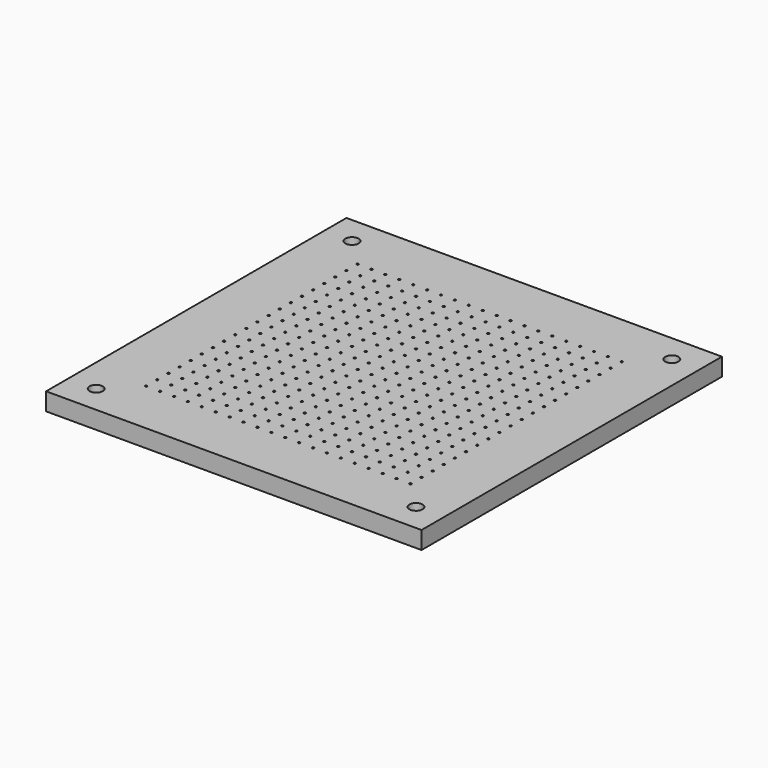
from build123d import *

# Parameters (mm, degrees)
F0_W     = 270
F0_H     = 270
F0_R     = 2.75
F0_R_2   = 0.75
F1_DEPTH = 12.7
F2_R     = 4.75
F2_R_2   = 2.75
F3_DEPTH = 5.5
F4_R     = 1.75
F5_DEPTH = 8


with BuildPart() as f1:
    # F0 (on Top) → F1 (new body)
    with BuildSketch(Plane.XY):
        with Locations((135, 135)):
            Rectangle(F0_W, F0_H)
        with Locations((20, 20)):
            Circle(F0_R, mode=Mode.SUBTRACT)
        with Locations((40, 40)):
            Circle(F0_R_2, mode=Mode.SUBTRACT)
        with Locations((50, 40)):
            Circle(F0_R_2, mode=Mode.SUBTRACT)
        with Locations((40, 50)):
            Circle(F0_R_2, mode=Mode.SUBTRACT)
        with Locations((50, 50)):
            Circle(F0_R_2, mode=Mode.SUBTRACT)
        with Locations((60, 40)):
            Circle(F0_R_2, mode=Mode.SUBTRACT)
        with Locations((60, 50)):
            Circle(F0_R_2, mode=Mode.SUBTRACT)
        with Locations((40, 60)):
            Circle(F0_R_2, mode=Mode.SUBTRACT)
        with Locations((50, 60)):
            Circle(F0_R_2, mode=Mode.SUBTRACT)
        with Locations((60, 60)):
            Circle(F0_R_2, mode=Mode.SUBTRACT)
        with Locations((70, 40)):
            Circle(F0_R_2, mode=Mode.SUBTRACT)
        with Locations((80, 40)):
            Circle(F0_R_2, mode=Mode.SUBTRACT)
        with Locations((70, 50)):
            Circle(F0_R_2, mode=Mode.SUBTRACT)
        with Locations((80, 50)):
            Circle(F0_R_2, mode=Mode.SUBTRACT)
        with Locations((90, 40)):
            Circle(F0_R_2, mode=Mode.SUBTRACT)
        with Locations((100, 40)):
            Circle(F0_R_2, mode=Mode.SUBTRACT)
        with Locations((90, 50)):
            Circle(F0_R_2, mode=Mode.SUBTRACT)
        with Locations((100, 50)):
            Circle(F0_R_2, mode=Mode.SUBTRACT)
        with Locations((70, 60)):
            Circle(F0_R_2, mode=Mode.SUBTRACT)
        with Locations((80, 60)):
            Circle(F0_R_2, mode=Mode.SUBTRACT)
        with Locations((90, 60)):
            Circle(F0_R_2, mode=Mode.SUBTRACT)
        with Locations((100, 60)):
            Circle(F0_R_2, mode=Mode.SUBTRACT)
        with Locations((110, 40)):
            Circle(F0_R_2, mode=Mode.SUBTRACT)
        with Locations((110, 50)):
            Circle(F0_R_2, mode=Mode.SUBTRACT)
        with Locations((120, 40)):
            Circle(F0_R_2, mode=Mode.SUBTRACT)
        with Locations((130, 40)):
            Circle(F0_R_2, mode=Mode.SUBTRACT)
        with Locations((120, 50)):
            Circle(F0_R_2, mode=Mode.SUBTRACT)
        with Locations((130, 50)):
            Circle(F0_R_2, mode=Mode.SUBTRACT)
        with Locations((110, 60)):
            Circle(F0_R_2, mode=Mode.SUBTRACT)
        with Locations((120, 60)):
            Circle(F0_R_2, mode=Mode.SUBTRACT)
        with Locations((130, 60)):
            Circle(F0_R_2, mode=Mode.SUBTRACT)
        with Locations((40, 70)):
            Circle(F0_R_2, mode=Mode.SUBTRACT)
        with Locations((50, 70)):
            Circle(F0_R_2, mode=Mode.SUBTRACT)
        with Locations((40, 80)):
            Circle(F0_R_2, mode=Mode.SUBTRACT)
        with Locations((50, 80)):
            Circle(F0_R_2, mode=Mode.SUBTRACT)
        with Locations((60, 70)):
            Circle(F0_R_2, mode=Mode.SUBTRACT)
        with Locations((60, 80)):
            Circle(F0_R_2, mode=Mode.SUBTRACT)
        with Locations((40, 90)):
            Circle(F0_R_2, mode=Mode.SUBTRACT)
        with Locations((50, 90)):
            Circle(F0_R_2, mode=Mode.SUBTRACT)
        with Locations((40, 100)):
            Circle(F0_R_2, mode=Mode.SUBTRACT)
        with Locations((50, 100)):
            Circle(F0_R_2, mode=Mode.SUBTRACT)
        with Locations((60, 90)):
            Circle(F0_R_2, mode=Mode.SUBTRACT)
        with Locations((60, 100)):
            Circle(F0_R_2, mode=Mode.SUBTRACT)
        with Locations((40, 110)):
            Circle(F0_R_2, mode=Mode.SUBTRACT)
        with Locations((50, 110)):
            Circle(F0_R_2, mode=Mode.SUBTRACT)
        with Locations((60, 110)):
            Circle(F0_R_2, mode=Mode.SUBTRACT)
        with Locations((40, 120)):
            Circle(F0_R_2, mode=Mode.SUBTRACT)
        with Locations((50, 120)):
            Circle(F0_R_2, mode=Mode.SUBTRACT)
        with Locations((40, 130)):
            Circle(F0_R_2, mode=Mode.SUBTRACT)
        with Locations((50, 130)):
            Circle(F0_R_2, mode=Mode.SUBTRACT)
        with Locations((60, 120)):
            Circle(F0_R_2, mode=Mode.SUBTRACT)
        with Locations((60, 130)):
            Circle(F0_R_2, mode=Mode.SUBTRACT)
        with Locations((70, 70)):
            Circle(F0_R_2, mode=Mode.SUBTRACT)
        with Locations((80, 70)):
            Circle(F0_R_2, mode=Mode.SUBTRACT)
        with Locations((70, 80)):
            Circle(F0_R_2, mode=Mode.SUBTRACT)
        with Locations((80, 80)):
            Circle(F0_R_2, mode=Mode.SUBTRACT)
        with Locations((90, 70)):
            Circle(F0_R_2, mode=Mode.SUBTRACT)
        with Locations((100, 70)):
            Circle(F0_R_2, mode=Mode.SUBTRACT)
        with Locations((90, 80)):
            Circle(F0_R_2, mode=Mode.SUBTRACT)
        with Locations((100, 80)):
            Circle(F0_R_2, mode=Mode.SUBTRACT)
        with Locations((70, 90)):
            Circle(F0_R_2, mode=Mode.SUBTRACT)
        with Locations((80, 90)):
            Circle(F0_R_2, mode=Mode.SUBTRACT)
        with Locations((70, 100)):
            Circle(F0_R_2, mode=Mode.SUBTRACT)
        with Locations((80, 100)):
            Circle(F0_R_2, mode=Mode.SUBTRACT)
        with Locations((90, 90)):
            Circle(F0_R_2, mode=Mode.SUBTRACT)
        with Locations((100, 90)):
            Circle(F0_R_2, mode=Mode.SUBTRACT)
        with Locations((90, 100)):
            Circle(F0_R_2, mode=Mode.SUBTRACT)
        with Locations((100, 100)):
            Circle(F0_R_2, mode=Mode.SUBTRACT)
        with Locations((110, 70)):
            Circle(F0_R_2, mode=Mode.SUBTRACT)
        with Locations((110, 80)):
            Circle(F0_R_2, mode=Mode.SUBTRACT)
        with Locations((120, 70)):
            Circle(F0_R_2, mode=Mode.SUBTRACT)
        with Locations((130, 70)):
            Circle(F0_R_2, mode=Mode.SUBTRACT)
        with Locations((120, 80)):
            Circle(F0_R_2, mode=Mode.SUBTRACT)
        with Locations((130, 80)):
            Circle(F0_R_2, mode=Mode.SUBTRACT)
        with Locations((110, 90)):
            Circle(F0_R_2, mode=Mode.SUBTRACT)
        with Locations((110, 100)):
            Circle(F0_R_2, mode=Mode.SUBTRACT)
        with Locations((120, 90)):
            Circle(F0_R_2, mode=Mode.SUBTRACT)
        with Locations((130, 90)):
            Circle(F0_R_2, mode=Mode.SUBTRACT)
        with Locations((120, 100)):
            Circle(F0_R_2, mode=Mode.SUBTRACT)
        with Locations((130, 100)):
            Circle(F0_R_2, mode=Mode.SUBTRACT)
        with Locations((70, 110)):
            Circle(F0_R_2, mode=Mode.SUBTRACT)
        with Locations((80, 110)):
            Circle(F0_R_2, mode=Mode.SUBTRACT)
        with Locations((90, 110)):
            Circle(F0_R_2, mode=Mode.SUBTRACT)
        with Locations((100, 110)):
            Circle(F0_R_2, mode=Mode.SUBTRACT)
        with Locations((70, 120)):
            Circle(F0_R_2, mode=Mode.SUBTRACT)
        with Locations((80, 120)):
            Circle(F0_R_2, mode=Mode.SUBTRACT)
        with Locations((70, 130)):
            Circle(F0_R_2, mode=Mode.SUBTRACT)
        with Locations((80, 130)):
            Circle(F0_R_2, mode=Mode.SUBTRACT)
        with Locations((90, 120)):
            Circle(F0_R_2, mode=Mode.SUBTRACT)
        with Locations((100, 120)):
            Circle(F0_R_2, mode=Mode.SUBTRACT)
        with Locations((90, 130)):
            Circle(F0_R_2, mode=Mode.SUBTRACT)
        with Locations((100, 130)):
            Circle(F0_R_2, mode=Mode.SUBTRACT)
        with Locations((110, 110)):
            Circle(F0_R_2, mode=Mode.SUBTRACT)
        with Locations((120, 110)):
            Circle(F0_R_2, mode=Mode.SUBTRACT)
        with Locations((130, 110)):
            Circle(F0_R_2, mode=Mode.SUBTRACT)
        with Locations((110, 120)):
            Circle(F0_R_2, mode=Mode.SUBTRACT)
        with Locations((110, 130)):
            Circle(F0_R_2, mode=Mode.SUBTRACT)
        with Locations((120, 120)):
            Circle(F0_R_2, mode=Mode.SUBTRACT)
        with Locations((130, 120)):
            Circle(F0_R_2, mode=Mode.SUBTRACT)
        with Locations((120, 130)):
            Circle(F0_R_2, mode=Mode.SUBTRACT)
        with Locations((130, 130)):
            Circle(F0_R_2, mode=Mode.SUBTRACT)
        with Locations((140, 40)):
            Circle(F0_R_2, mode=Mode.SUBTRACT)
        with Locations((150, 40)):
            Circle(F0_R_2, mode=Mode.SUBTRACT)
        with Locations((140, 50)):
            Circle(F0_R_2, mode=Mode.SUBTRACT)
        with Locations((150, 50)):
            Circle(F0_R_2, mode=Mode.SUBTRACT)
        with Locations((160, 40)):
            Circle(F0_R_2, mode=Mode.SUBTRACT)
        with Locations((160, 50)):
            Circle(F0_R_2, mode=Mode.SUBTRACT)
        with Locations((140, 60)):
            Circle(F0_R_2, mode=Mode.SUBTRACT)
        with Locations((150, 60)):
            Circle(F0_R_2, mode=Mode.SUBTRACT)
        with Locations((160, 60)):
            Circle(F0_R_2, mode=Mode.SUBTRACT)
        with Locations((170, 40)):
            Circle(F0_R_2, mode=Mode.SUBTRACT)
        with Locations((180, 40)):
            Circle(F0_R_2, mode=Mode.SUBTRACT)
        with Locations((170, 50)):
            Circle(F0_R_2, mode=Mode.SUBTRACT)
        with Locations((180, 50)):
            Circle(F0_R_2, mode=Mode.SUBTRACT)
        with Locations((190, 40)):
            Circle(F0_R_2, mode=Mode.SUBTRACT)
        with Locations((200, 40)):
            Circle(F0_R_2, mode=Mode.SUBTRACT)
        with Locations((190, 50)):
            Circle(F0_R_2, mode=Mode.SUBTRACT)
        with Locations((200, 50)):
            Circle(F0_R_2, mode=Mode.SUBTRACT)
        with Locations((170, 60)):
            Circle(F0_R_2, mode=Mode.SUBTRACT)
        with Locations((180, 60)):
            Circle(F0_R_2, mode=Mode.SUBTRACT)
        with Locations((190, 60)):
            Circle(F0_R_2, mode=Mode.SUBTRACT)
        with Locations((200, 60)):
            Circle(F0_R_2, mode=Mode.SUBTRACT)
        with Locations((250, 20)):
            Circle(F0_R, mode=Mode.SUBTRACT)
        with Locations((210, 40)):
            Circle(F0_R_2, mode=Mode.SUBTRACT)
        with Locations((210, 50)):
            Circle(F0_R_2, mode=Mode.SUBTRACT)
        with Locations((220, 40)):
            Circle(F0_R_2, mode=Mode.SUBTRACT)
        with Locations((230, 40)):
            Circle(F0_R_2, mode=Mode.SUBTRACT)
        with Locations((220, 50)):
            Circle(F0_R_2, mode=Mode.SUBTRACT)
        with Locations((230, 50)):
            Circle(F0_R_2, mode=Mode.SUBTRACT)
        with Locations((210, 60)):
            Circle(F0_R_2, mode=Mode.SUBTRACT)
        with Locations((220, 60)):
            Circle(F0_R_2, mode=Mode.SUBTRACT)
        with Locations((230, 60)):
            Circle(F0_R_2, mode=Mode.SUBTRACT)
        with Locations((140, 70)):
            Circle(F0_R_2, mode=Mode.SUBTRACT)
        with Locations((150, 70)):
            Circle(F0_R_2, mode=Mode.SUBTRACT)
        with Locations((140, 80)):
            Circle(F0_R_2, mode=Mode.SUBTRACT)
        with Locations((150, 80)):
            Circle(F0_R_2, mode=Mode.SUBTRACT)
        with Locations((160, 70)):
            Circle(F0_R_2, mode=Mode.SUBTRACT)
        with Locations((160, 80)):
            Circle(F0_R_2, mode=Mode.SUBTRACT)
        with Locations((140, 90)):
            Circle(F0_R_2, mode=Mode.SUBTRACT)
        with Locations((150, 90)):
            Circle(F0_R_2, mode=Mode.SUBTRACT)
        with Locations((140, 100)):
            Circle(F0_R_2, mode=Mode.SUBTRACT)
        with Locations((150, 100)):
            Circle(F0_R_2, mode=Mode.SUBTRACT)
        with Locations((160, 90)):
            Circle(F0_R_2, mode=Mode.SUBTRACT)
        with Locations((160, 100)):
            Circle(F0_R_2, mode=Mode.SUBTRACT)
        with Locations((170, 70)):
            Circle(F0_R_2, mode=Mode.SUBTRACT)
        with Locations((180, 70)):
            Circle(F0_R_2, mode=Mode.SUBTRACT)
        with Locations((170, 80)):
            Circle(F0_R_2, mode=Mode.SUBTRACT)
        with Locations((180, 80)):
            Circle(F0_R_2, mode=Mode.SUBTRACT)
        with Locations((190, 70)):
            Circle(F0_R_2, mode=Mode.SUBTRACT)
        with Locations((200, 70)):
            Circle(F0_R_2, mode=Mode.SUBTRACT)
        with Locations((190, 80)):
            Circle(F0_R_2, mode=Mode.SUBTRACT)
        with Locations((200, 80)):
            Circle(F0_R_2, mode=Mode.SUBTRACT)
        with Locations((170, 90)):
            Circle(F0_R_2, mode=Mode.SUBTRACT)
        with Locations((180, 90)):
            Circle(F0_R_2, mode=Mode.SUBTRACT)
        with Locations((170, 100)):
            Circle(F0_R_2, mode=Mode.SUBTRACT)
        with Locations((180, 100)):
            Circle(F0_R_2, mode=Mode.SUBTRACT)
        with Locations((190, 90)):
            Circle(F0_R_2, mode=Mode.SUBTRACT)
        with Locations((200, 90)):
            Circle(F0_R_2, mode=Mode.SUBTRACT)
        with Locations((190, 100)):
            Circle(F0_R_2, mode=Mode.SUBTRACT)
        with Locations((200, 100)):
            Circle(F0_R_2, mode=Mode.SUBTRACT)
        with Locations((140, 110)):
            Circle(F0_R_2, mode=Mode.SUBTRACT)
        with Locations((150, 110)):
            Circle(F0_R_2, mode=Mode.SUBTRACT)
        with Locations((160, 110)):
            Circle(F0_R_2, mode=Mode.SUBTRACT)
        with Locations((140, 120)):
            Circle(F0_R_2, mode=Mode.SUBTRACT)
        with Locations((150, 120)):
            Circle(F0_R_2, mode=Mode.SUBTRACT)
        with Locations((140, 130)):
            Circle(F0_R_2, mode=Mode.SUBTRACT)
        with Locations((150, 130)):
            Circle(F0_R_2, mode=Mode.SUBTRACT)
        with Locations((160, 120)):
            Circle(F0_R_2, mode=Mode.SUBTRACT)
        with Locations((160, 130)):
            Circle(F0_R_2, mode=Mode.SUBTRACT)
        with Locations((170, 110)):
            Circle(F0_R_2, mode=Mode.SUBTRACT)
        with Locations((180, 110)):
            Circle(F0_R_2, mode=Mode.SUBTRACT)
        with Locations((190, 110)):
            Circle(F0_R_2, mode=Mode.SUBTRACT)
        with Locations((200, 110)):
            Circle(F0_R_2, mode=Mode.SUBTRACT)
        with Locations((170, 120)):
            Circle(F0_R_2, mode=Mode.SUBTRACT)
        with Locations((180, 120)):
            Circle(F0_R_2, mode=Mode.SUBTRACT)
        with Locations((170, 130)):
            Circle(F0_R_2, mode=Mode.SUBTRACT)
        with Locations((180, 130)):
            Circle(F0_R_2, mode=Mode.SUBTRACT)
        with Locations((190, 120)):
            Circle(F0_R_2, mode=Mode.SUBTRACT)
        with Locations((200, 120)):
            Circle(F0_R_2, mode=Mode.SUBTRACT)
        with Locations((190, 130)):
            Circle(F0_R_2, mode=Mode.SUBTRACT)
        with Locations((200, 130)):
            Circle(F0_R_2, mode=Mode.SUBTRACT)
        with Locations((210, 70)):
            Circle(F0_R_2, mode=Mode.SUBTRACT)
        with Locations((210, 80)):
            Circle(F0_R_2, mode=Mode.SUBTRACT)
        with Locations((220, 70)):
            Circle(F0_R_2, mode=Mode.SUBTRACT)
        with Locations((230, 70)):
            Circle(F0_R_2, mode=Mode.SUBTRACT)
        with Locations((220, 80)):
            Circle(F0_R_2, mode=Mode.SUBTRACT)
        with Locations((230, 80)):
            Circle(F0_R_2, mode=Mode.SUBTRACT)
        with Locations((210, 90)):
            Circle(F0_R_2, mode=Mode.SUBTRACT)
        with Locations((210, 100)):
            Circle(F0_R_2, mode=Mode.SUBTRACT)
        with Locations((220, 90)):
            Circle(F0_R_2, mode=Mode.SUBTRACT)
        with Locations((230, 90)):
            Circle(F0_R_2, mode=Mode.SUBTRACT)
        with Locations((220, 100)):
            Circle(F0_R_2, mode=Mode.SUBTRACT)
        with Locations((230, 100)):
            Circle(F0_R_2, mode=Mode.SUBTRACT)
        with Locations((210, 110)):
            Circle(F0_R_2, mode=Mode.SUBTRACT)
        with Locations((220, 110)):
            Circle(F0_R_2, mode=Mode.SUBTRACT)
        with Locations((230, 110)):
            Circle(F0_R_2, mode=Mode.SUBTRACT)
        with Locations((210, 120)):
            Circle(F0_R_2, mode=Mode.SUBTRACT)
        with Locations((210, 130)):
            Circle(F0_R_2, mode=Mode.SUBTRACT)
        with Locations((220, 120)):
            Circle(F0_R_2, mode=Mode.SUBTRACT)
        with Locations((230, 120)):
            Circle(F0_R_2, mode=Mode.SUBTRACT)
        with Locations((220, 130)):
            Circle(F0_R_2, mode=Mode.SUBTRACT)
        with Locations((230, 130)):
            Circle(F0_R_2, mode=Mode.SUBTRACT)
        with Locations((40, 140)):
            Circle(F0_R_2, mode=Mode.SUBTRACT)
        with Locations((50, 140)):
            Circle(F0_R_2, mode=Mode.SUBTRACT)
        with Locations((40, 150)):
            Circle(F0_R_2, mode=Mode.SUBTRACT)
        with Locations((50, 150)):
            Circle(F0_R_2, mode=Mode.SUBTRACT)
        with Locations((60, 140)):
            Circle(F0_R_2, mode=Mode.SUBTRACT)
        with Locations((60, 150)):
            Circle(F0_R_2, mode=Mode.SUBTRACT)
        with Locations((40, 160)):
            Circle(F0_R_2, mode=Mode.SUBTRACT)
        with Locations((50, 160)):
            Circle(F0_R_2, mode=Mode.SUBTRACT)
        with Locations((60, 160)):
            Circle(F0_R_2, mode=Mode.SUBTRACT)
        with Locations((40, 170)):
            Circle(F0_R_2, mode=Mode.SUBTRACT)
        with Locations((50, 170)):
            Circle(F0_R_2, mode=Mode.SUBTRACT)
        with Locations((40, 180)):
            Circle(F0_R_2, mode=Mode.SUBTRACT)
        with Locations((50, 180)):
            Circle(F0_R_2, mode=Mode.SUBTRACT)
        with Locations((60, 170)):
            Circle(F0_R_2, mode=Mode.SUBTRACT)
        with Locations((60, 180)):
            Circle(F0_R_2, mode=Mode.SUBTRACT)
        with Locations((40, 190)):
            Circle(F0_R_2, mode=Mode.SUBTRACT)
        with Locations((50, 190)):
            Circle(F0_R_2, mode=Mode.SUBTRACT)
        with Locations((40, 200)):
            Circle(F0_R_2, mode=Mode.SUBTRACT)
        with Locations((50, 200)):
            Circle(F0_R_2, mode=Mode.SUBTRACT)
        with Locations((60, 190)):
            Circle(F0_R_2, mode=Mode.SUBTRACT)
        with Locations((60, 200)):
            Circle(F0_R_2, mode=Mode.SUBTRACT)
        with Locations((70, 140)):
            Circle(F0_R_2, mode=Mode.SUBTRACT)
        with Locations((80, 140)):
            Circle(F0_R_2, mode=Mode.SUBTRACT)
        with Locations((70, 150)):
            Circle(F0_R_2, mode=Mode.SUBTRACT)
        with Locations((80, 150)):
            Circle(F0_R_2, mode=Mode.SUBTRACT)
        with Locations((90, 140)):
            Circle(F0_R_2, mode=Mode.SUBTRACT)
        with Locations((100, 140)):
            Circle(F0_R_2, mode=Mode.SUBTRACT)
        with Locations((90, 150)):
            Circle(F0_R_2, mode=Mode.SUBTRACT)
        with Locations((100, 150)):
            Circle(F0_R_2, mode=Mode.SUBTRACT)
        with Locations((70, 160)):
            Circle(F0_R_2, mode=Mode.SUBTRACT)
        with Locations((80, 160)):
            Circle(F0_R_2, mode=Mode.SUBTRACT)
        with Locations((90, 160)):
            Circle(F0_R_2, mode=Mode.SUBTRACT)
        with Locations((100, 160)):
            Circle(F0_R_2, mode=Mode.SUBTRACT)
        with Locations((110, 140)):
            Circle(F0_R_2, mode=Mode.SUBTRACT)
        with Locations((110, 150)):
            Circle(F0_R_2, mode=Mode.SUBTRACT)
        with Locations((120, 140)):
            Circle(F0_R_2, mode=Mode.SUBTRACT)
        with Locations((130, 140)):
            Circle(F0_R_2, mode=Mode.SUBTRACT)
        with Locations((120, 150)):
            Circle(F0_R_2, mode=Mode.SUBTRACT)
        with Locations((130, 150)):
            Circle(F0_R_2, mode=Mode.SUBTRACT)
        with Locations((110, 160)):
            Circle(F0_R_2, mode=Mode.SUBTRACT)
        with Locations((120, 160)):
            Circle(F0_R_2, mode=Mode.SUBTRACT)
        with Locations((130, 160)):
            Circle(F0_R_2, mode=Mode.SUBTRACT)
        with Locations((70, 170)):
            Circle(F0_R_2, mode=Mode.SUBTRACT)
        with Locations((80, 170)):
            Circle(F0_R_2, mode=Mode.SUBTRACT)
        with Locations((70, 180)):
            Circle(F0_R_2, mode=Mode.SUBTRACT)
        with Locations((80, 180)):
            Circle(F0_R_2, mode=Mode.SUBTRACT)
        with Locations((90, 170)):
            Circle(F0_R_2, mode=Mode.SUBTRACT)
        with Locations((100, 170)):
            Circle(F0_R_2, mode=Mode.SUBTRACT)
        with Locations((90, 180)):
            Circle(F0_R_2, mode=Mode.SUBTRACT)
        with Locations((100, 180)):
            Circle(F0_R_2, mode=Mode.SUBTRACT)
        with Locations((70, 190)):
            Circle(F0_R_2, mode=Mode.SUBTRACT)
        with Locations((80, 190)):
            Circle(F0_R_2, mode=Mode.SUBTRACT)
        with Locations((70, 200)):
            Circle(F0_R_2, mode=Mode.SUBTRACT)
        with Locations((80, 200)):
            Circle(F0_R_2, mode=Mode.SUBTRACT)
        with Locations((90, 190)):
            Circle(F0_R_2, mode=Mode.SUBTRACT)
        with Locations((100, 190)):
            Circle(F0_R_2, mode=Mode.SUBTRACT)
        with Locations((90, 200)):
            Circle(F0_R_2, mode=Mode.SUBTRACT)
        with Locations((100, 200)):
            Circle(F0_R_2, mode=Mode.SUBTRACT)
        with Locations((110, 170)):
            Circle(F0_R_2, mode=Mode.SUBTRACT)
        with Locations((110, 180)):
            Circle(F0_R_2, mode=Mode.SUBTRACT)
        with Locations((120, 170)):
            Circle(F0_R_2, mode=Mode.SUBTRACT)
        with Locations((130, 170)):
            Circle(F0_R_2, mode=Mode.SUBTRACT)
        with Locations((120, 180)):
            Circle(F0_R_2, mode=Mode.SUBTRACT)
        with Locations((130, 180)):
            Circle(F0_R_2, mode=Mode.SUBTRACT)
        with Locations((110, 190)):
            Circle(F0_R_2, mode=Mode.SUBTRACT)
        with Locations((110, 200)):
            Circle(F0_R_2, mode=Mode.SUBTRACT)
        with Locations((120, 190)):
            Circle(F0_R_2, mode=Mode.SUBTRACT)
        with Locations((130, 190)):
            Circle(F0_R_2, mode=Mode.SUBTRACT)
        with Locations((120, 200)):
            Circle(F0_R_2, mode=Mode.SUBTRACT)
        with Locations((130, 200)):
            Circle(F0_R_2, mode=Mode.SUBTRACT)
        with Locations((40, 210)):
            Circle(F0_R_2, mode=Mode.SUBTRACT)
        with Locations((50, 210)):
            Circle(F0_R_2, mode=Mode.SUBTRACT)
        with Locations((60, 210)):
            Circle(F0_R_2, mode=Mode.SUBTRACT)
        with Locations((40, 220)):
            Circle(F0_R_2, mode=Mode.SUBTRACT)
        with Locations((50, 220)):
            Circle(F0_R_2, mode=Mode.SUBTRACT)
        with Locations((40, 230)):
            Circle(F0_R_2, mode=Mode.SUBTRACT)
        with Locations((50, 230)):
            Circle(F0_R_2, mode=Mode.SUBTRACT)
        with Locations((60, 220)):
            Circle(F0_R_2, mode=Mode.SUBTRACT)
        with Locations((60, 230)):
            Circle(F0_R_2, mode=Mode.SUBTRACT)
        with Locations((20, 250)):
            Circle(F0_R, mode=Mode.SUBTRACT)
        with Locations((70, 210)):
            Circle(F0_R_2, mode=Mode.SUBTRACT)
        with Locations((80, 210)):
            Circle(F0_R_2, mode=Mode.SUBTRACT)
        with Locations((90, 210)):
            Circle(F0_R_2, mode=Mode.SUBTRACT)
        with Locations((100, 210)):
            Circle(F0_R_2, mode=Mode.SUBTRACT)
        with Locations((70, 220)):
            Circle(F0_R_2, mode=Mode.SUBTRACT)
        with Locations((80, 220)):
            Circle(F0_R_2, mode=Mode.SUBTRACT)
        with Locations((70, 230)):
            Circle(F0_R_2, mode=Mode.SUBTRACT)
        with Locations((80, 230)):
            Circle(F0_R_2, mode=Mode.SUBTRACT)
        with Locations((90, 220)):
            Circle(F0_R_2, mode=Mode.SUBTRACT)
        with Locations((100, 220)):
            Circle(F0_R_2, mode=Mode.SUBTRACT)
        with Locations((90, 230)):
            Circle(F0_R_2, mode=Mode.SUBTRACT)
        with Locations((100, 230)):
            Circle(F0_R_2, mode=Mode.SUBTRACT)
        with Locations((110, 210)):
            Circle(F0_R_2, mode=Mode.SUBTRACT)
        with Locations((120, 210)):
            Circle(F0_R_2, mode=Mode.SUBTRACT)
        with Locations((130, 210)):
            Circle(F0_R_2, mode=Mode.SUBTRACT)
        with Locations((110, 220)):
            Circle(F0_R_2, mode=Mode.SUBTRACT)
        with Locations((110, 230)):
            Circle(F0_R_2, mode=Mode.SUBTRACT)
        with Locations((120, 220)):
            Circle(F0_R_2, mode=Mode.SUBTRACT)
        with Locations((130, 220)):
            Circle(F0_R_2, mode=Mode.SUBTRACT)
        with Locations((120, 230)):
            Circle(F0_R_2, mode=Mode.SUBTRACT)
        with Locations((130, 230)):
            Circle(F0_R_2, mode=Mode.SUBTRACT)
        with Locations((140, 140)):
            Circle(F0_R_2, mode=Mode.SUBTRACT)
        with Locations((150, 140)):
            Circle(F0_R_2, mode=Mode.SUBTRACT)
        with Locations((140, 150)):
            Circle(F0_R_2, mode=Mode.SUBTRACT)
        with Locations((150, 150)):
            Circle(F0_R_2, mode=Mode.SUBTRACT)
        with Locations((160, 140)):
            Circle(F0_R_2, mode=Mode.SUBTRACT)
        with Locations((160, 150)):
            Circle(F0_R_2, mode=Mode.SUBTRACT)
        with Locations((140, 160)):
            Circle(F0_R_2, mode=Mode.SUBTRACT)
        with Locations((150, 160)):
            Circle(F0_R_2, mode=Mode.SUBTRACT)
        with Locations((160, 160)):
            Circle(F0_R_2, mode=Mode.SUBTRACT)
        with Locations((170, 140)):
            Circle(F0_R_2, mode=Mode.SUBTRACT)
        with Locations((180, 140)):
            Circle(F0_R_2, mode=Mode.SUBTRACT)
        with Locations((170, 150)):
            Circle(F0_R_2, mode=Mode.SUBTRACT)
        with Locations((180, 150)):
            Circle(F0_R_2, mode=Mode.SUBTRACT)
        with Locations((190, 140)):
            Circle(F0_R_2, mode=Mode.SUBTRACT)
        with Locations((200, 140)):
            Circle(F0_R_2, mode=Mode.SUBTRACT)
        with Locations((190, 150)):
            Circle(F0_R_2, mode=Mode.SUBTRACT)
        with Locations((200, 150)):
            Circle(F0_R_2, mode=Mode.SUBTRACT)
        with Locations((170, 160)):
            Circle(F0_R_2, mode=Mode.SUBTRACT)
        with Locations((180, 160)):
            Circle(F0_R_2, mode=Mode.SUBTRACT)
        with Locations((190, 160)):
            Circle(F0_R_2, mode=Mode.SUBTRACT)
        with Locations((200, 160)):
            Circle(F0_R_2, mode=Mode.SUBTRACT)
        with Locations((140, 170)):
            Circle(F0_R_2, mode=Mode.SUBTRACT)
        with Locations((150, 170)):
            Circle(F0_R_2, mode=Mode.SUBTRACT)
        with Locations((140, 180)):
            Circle(F0_R_2, mode=Mode.SUBTRACT)
        with Locations((150, 180)):
            Circle(F0_R_2, mode=Mode.SUBTRACT)
        with Locations((160, 170)):
            Circle(F0_R_2, mode=Mode.SUBTRACT)
        with Locations((160, 180)):
            Circle(F0_R_2, mode=Mode.SUBTRACT)
        with Locations((140, 190)):
            Circle(F0_R_2, mode=Mode.SUBTRACT)
        with Locations((150, 190)):
            Circle(F0_R_2, mode=Mode.SUBTRACT)
        with Locations((140, 200)):
            Circle(F0_R_2, mode=Mode.SUBTRACT)
        with Locations((150, 200)):
            Circle(F0_R_2, mode=Mode.SUBTRACT)
        with Locations((160, 190)):
            Circle(F0_R_2, mode=Mode.SUBTRACT)
        with Locations((160, 200)):
            Circle(F0_R_2, mode=Mode.SUBTRACT)
        with Locations((170, 170)):
            Circle(F0_R_2, mode=Mode.SUBTRACT)
        with Locations((180, 170)):
            Circle(F0_R_2, mode=Mode.SUBTRACT)
        with Locations((170, 180)):
            Circle(F0_R_2, mode=Mode.SUBTRACT)
        with Locations((180, 180)):
            Circle(F0_R_2, mode=Mode.SUBTRACT)
        with Locations((190, 170)):
            Circle(F0_R_2, mode=Mode.SUBTRACT)
        with Locations((200, 170)):
            Circle(F0_R_2, mode=Mode.SUBTRACT)
        with Locations((190, 180)):
            Circle(F0_R_2, mode=Mode.SUBTRACT)
        with Locations((200, 180)):
            Circle(F0_R_2, mode=Mode.SUBTRACT)
        with Locations((170, 190)):
            Circle(F0_R_2, mode=Mode.SUBTRACT)
        with Locations((180, 190)):
            Circle(F0_R_2, mode=Mode.SUBTRACT)
        with Locations((170, 200)):
            Circle(F0_R_2, mode=Mode.SUBTRACT)
        with Locations((180, 200)):
            Circle(F0_R_2, mode=Mode.SUBTRACT)
        with Locations((190, 190)):
            Circle(F0_R_2, mode=Mode.SUBTRACT)
        with Locations((200, 190)):
            Circle(F0_R_2, mode=Mode.SUBTRACT)
        with Locations((190, 200)):
            Circle(F0_R_2, mode=Mode.SUBTRACT)
        with Locations((200, 200)):
            Circle(F0_R_2, mode=Mode.SUBTRACT)
        with Locations((210, 140)):
            Circle(F0_R_2, mode=Mode.SUBTRACT)
        with Locations((210, 150)):
            Circle(F0_R_2, mode=Mode.SUBTRACT)
        with Locations((220, 140)):
            Circle(F0_R_2, mode=Mode.SUBTRACT)
        with Locations((230, 140)):
            Circle(F0_R_2, mode=Mode.SUBTRACT)
        with Locations((220, 150)):
            Circle(F0_R_2, mode=Mode.SUBTRACT)
        with Locations((230, 150)):
            Circle(F0_R_2, mode=Mode.SUBTRACT)
        with Locations((210, 160)):
            Circle(F0_R_2, mode=Mode.SUBTRACT)
        with Locations((220, 160)):
            Circle(F0_R_2, mode=Mode.SUBTRACT)
        with Locations((230, 160)):
            Circle(F0_R_2, mode=Mode.SUBTRACT)
        with Locations((210, 170)):
            Circle(F0_R_2, mode=Mode.SUBTRACT)
        with Locations((210, 180)):
            Circle(F0_R_2, mode=Mode.SUBTRACT)
        with Locations((220, 170)):
            Circle(F0_R_2, mode=Mode.SUBTRACT)
        with Locations((230, 170)):
            Circle(F0_R_2, mode=Mode.SUBTRACT)
        with Locations((220, 180)):
            Circle(F0_R_2, mode=Mode.SUBTRACT)
        with Locations((230, 180)):
            Circle(F0_R_2, mode=Mode.SUBTRACT)
        with Locations((210, 190)):
            Circle(F0_R_2, mode=Mode.SUBTRACT)
        with Locations((210, 200)):
            Circle(F0_R_2, mode=Mode.SUBTRACT)
        with Locations((220, 190)):
            Circle(F0_R_2, mode=Mode.SUBTRACT)
        with Locations((230, 190)):
            Circle(F0_R_2, mode=Mode.SUBTRACT)
        with Locations((220, 200)):
            Circle(F0_R_2, mode=Mode.SUBTRACT)
        with Locations((230, 200)):
            Circle(F0_R_2, mode=Mode.SUBTRACT)
        with Locations((140, 210)):
            Circle(F0_R_2, mode=Mode.SUBTRACT)
        with Locations((150, 210)):
            Circle(F0_R_2, mode=Mode.SUBTRACT)
        with Locations((160, 210)):
            Circle(F0_R_2, mode=Mode.SUBTRACT)
        with Locations((140, 220)):
            Circle(F0_R_2, mode=Mode.SUBTRACT)
        with Locations((150, 220)):
            Circle(F0_R_2, mode=Mode.SUBTRACT)
        with Locations((140, 230)):
            Circle(F0_R_2, mode=Mode.SUBTRACT)
        with Locations((150, 230)):
            Circle(F0_R_2, mode=Mode.SUBTRACT)
        with Locations((160, 220)):
            Circle(F0_R_2, mode=Mode.SUBTRACT)
        with Locations((160, 230)):
            Circle(F0_R_2, mode=Mode.SUBTRACT)
        with Locations((170, 210)):
            Circle(F0_R_2, mode=Mode.SUBTRACT)
        with Locations((180, 210)):
            Circle(F0_R_2, mode=Mode.SUBTRACT)
        with Locations((190, 210)):
            Circle(F0_R_2, mode=Mode.SUBTRACT)
        with Locations((200, 210)):
            Circle(F0_R_2, mode=Mode.SUBTRACT)
        with Locations((170, 220)):
            Circle(F0_R_2, mode=Mode.SUBTRACT)
        with Locations((180, 220)):
            Circle(F0_R_2, mode=Mode.SUBTRACT)
        with Locations((170, 230)):
            Circle(F0_R_2, mode=Mode.SUBTRACT)
        with Locations((180, 230)):
            Circle(F0_R_2, mode=Mode.SUBTRACT)
        with Locations((190, 220)):
            Circle(F0_R_2, mode=Mode.SUBTRACT)
        with Locations((200, 220)):
            Circle(F0_R_2, mode=Mode.SUBTRACT)
        with Locations((190, 230)):
            Circle(F0_R_2, mode=Mode.SUBTRACT)
        with Locations((200, 230)):
            Circle(F0_R_2, mode=Mode.SUBTRACT)
        with Locations((210, 210)):
            Circle(F0_R_2, mode=Mode.SUBTRACT)
        with Locations((220, 210)):
            Circle(F0_R_2, mode=Mode.SUBTRACT)
        with Locations((230, 210)):
            Circle(F0_R_2, mode=Mode.SUBTRACT)
        with Locations((210, 220)):
            Circle(F0_R_2, mode=Mode.SUBTRACT)
        with Locations((210, 230)):
            Circle(F0_R_2, mode=Mode.SUBTRACT)
        with Locations((220, 220)):
            Circle(F0_R_2, mode=Mode.SUBTRACT)
        with Locations((230, 220)):
            Circle(F0_R_2, mode=Mode.SUBTRACT)
        with Locations((220, 230)):
            Circle(F0_R_2, mode=Mode.SUBTRACT)
        with Locations((230, 230)):
            Circle(F0_R_2, mode=Mode.SUBTRACT)
        with Locations((250, 250)):
            Circle(F0_R, mode=Mode.SUBTRACT)
    extrude(amount=F1_DEPTH)

    # F2 (on face) → F3 (cut)
    with BuildSketch(Plane.XY.offset(12.7)):
        with Locations((20, 20)):
            Circle(F2_R)
        with Locations((20, 20)):
            Circle(F2_R_2, mode=Mode.SUBTRACT)
        with Locations((20, 250)):
            Circle(F2_R)
        with Locations((20, 250)):
            Circle(F2_R_2, mode=Mode.SUBTRACT)
        with Locations((250, 250)):
            Circle(F2_R)
        with Locations((250, 250)):
            Circle(F2_R_2, mode=Mode.SUBTRACT)
        with Locations((250, 20)):
            Circle(F2_R)
        with Locations((250, 20)):
            Circle(F2_R_2, mode=Mode.SUBTRACT)
    extrude(amount=-F3_DEPTH, mode=Mode.SUBTRACT)

    # F4 (on face) → F5 (cut)
    with BuildSketch(Plane.XY):
        with Locations((20, 66)):
            Circle(F4_R)
        with Locations((66, 20)):
            Circle(F4_R)
        with Locations((112, 20)):
            Circle(F4_R)
        with Locations((158, 20)):
            Circle(F4_R)
        with Locations((204, 20)):
            Circle(F4_R)
        with Locations((250, 66)):
            Circle(F4_R)
        with Locations((250, 112)):
            Circle(F4_R)
        with Locations((250, 158)):
            Circle(F4_R)
        with Locations((250, 204)):
            Circle(F4_R)
        with Locations((204, 250)):
            Circle(F4_R)
        with Locations((158, 250)):
            Circle(F4_R)
        with Locations((112, 250)):
            Circle(F4_R)
        with Locations((66, 250)):
            Circle(F4_R)
        with Locations((20, 204)):
            Circle(F4_R)
        with Locations((20, 158)):
            Circle(F4_R)
        with Locations((20, 112)):
            Circle(F4_R)
    extrude(amount=F5_DEPTH, mode=Mode.SUBTRACT)


solid = f1.part
